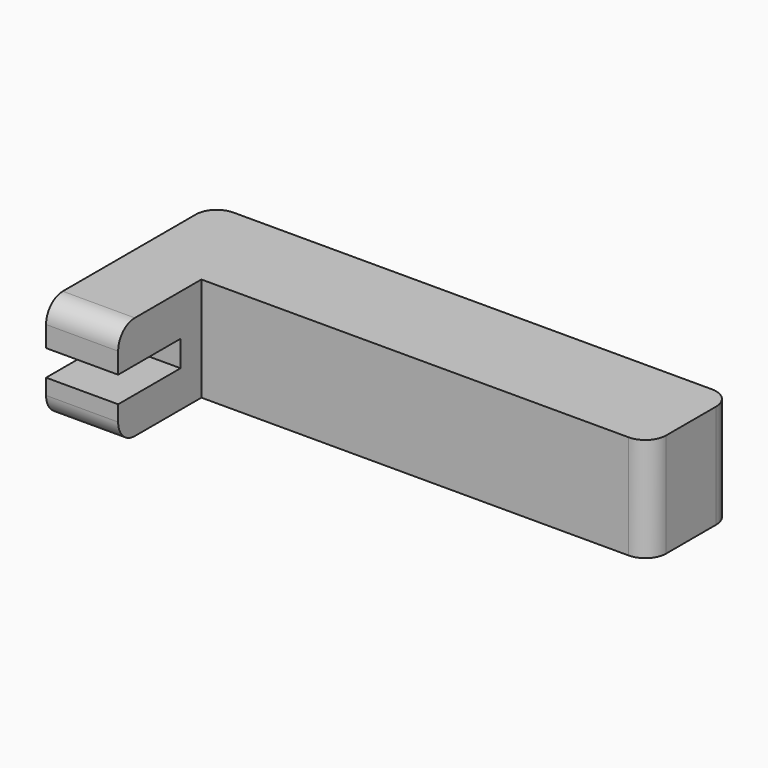
from build123d import *

# Parameters (mm, degrees)
F0_W     = 127
F0_H     = 25.4
F1_DEPTH = 25.4
F2_W     = 17.595317
F2_H     = 25.4
F3_DEPTH = 25.4
F4_W     = 17.595317
F4_H     = 6.35
F5_DEPTH = 19.05
F6_R     = 5.08
F7_R     = 5.08


with BuildPart() as f1:
    # F0 (on Front) → F1 (new body)
    with BuildSketch(Plane.XZ):
        with Locations((63.5, 12.7)):
            Rectangle(F0_W, F0_H)
    extrude(amount=-F1_DEPTH)

    # F2 (on face) → F3 (join)
    with BuildSketch(Plane.XZ):
        with Locations((8.797658, 12.7)):
            Rectangle(F2_W, F2_H)
    extrude(amount=F3_DEPTH)

    # F4 (on face) → F5 (cut)
    with BuildSketch(Plane.XZ.offset(25.4)):
        with Locations((8.797658, 12.076512)):
            Rectangle(F4_W, F4_H)
    extrude(amount=-F5_DEPTH, mode=Mode.SUBTRACT)

    # F6
    f6_edges = [f1.edges().sort_by_distance(p)[0] for p in [
        (8.797659, -25.4, 25.4),
        (8.797659, -25.4, 0),
        (127, 0, 12.7),
        (127, 25.4, 12.7),
    ]]
    fillet(f6_edges, radius=F6_R)

    # F7
    f7_edges = [f1.edges().sort_by_distance(p)[0] for p in [
        (0, 25.4, 12.7),
    ]]
    fillet(f7_edges, radius=F7_R)


solid = f1.part
